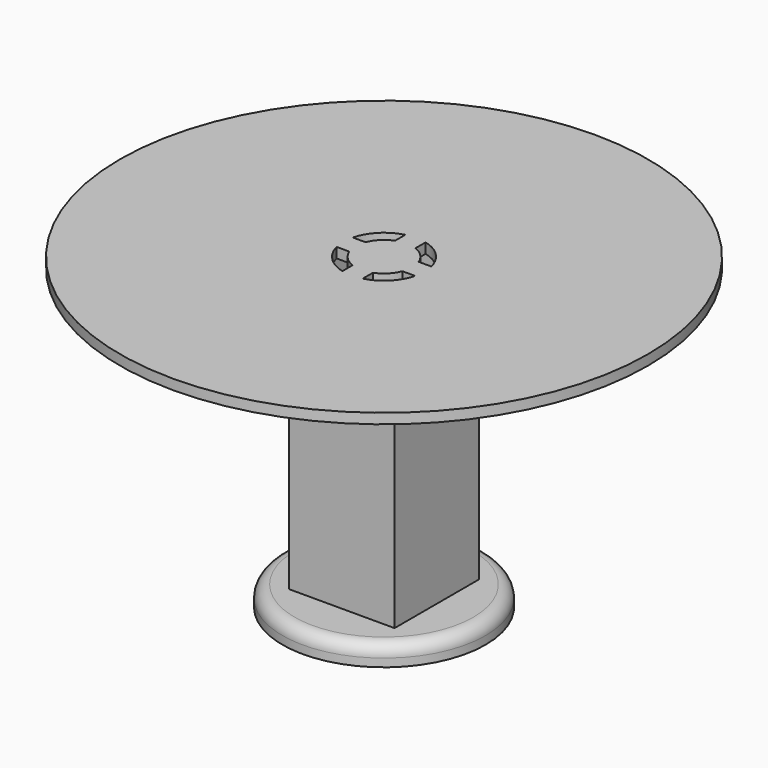
from build123d import *

# Parameters (mm, degrees)
F0_R      = 250
F1_DEPTH  = 50
F2_R      = 30
F3_W      = 260
F3_H      = 260
F3_W_2    = 220
F3_H_2    = 220
F4_DEPTH  = 685
F5_R      = 650
F5_W      = 260
F5_H      = 260
F5_W_2    = 220
F5_H_2    = 220
F6_DEPTH  = 25
F8_DEPTH  = 100
F9_W      = 160
F9_H      = 585
F10_DEPTH = 40
F11_R     = 50
F12_DEPTH = 50


with BuildPart() as f1:
    # F0 (on Top) → F1 (new body)
    with BuildSketch(Plane.XY):
        Circle(F0_R)
    extrude(amount=F1_DEPTH)

    # F2
    f2_edges = [f1.edges().sort_by_distance(p)[0] for p in [
        (-250, 0, 50),
    ]]
    fillet(f2_edges, radius=F2_R)

    # F3 (on face) → F4 (join)
    with BuildSketch(Plane.XY.offset(50)):
        Rectangle(F3_W, F3_H)
        Rectangle(F3_W_2, F3_H_2, mode=Mode.SUBTRACT)
    extrude(amount=F4_DEPTH)

    # F5 (on face) → F6 (join)
    with BuildSketch(Plane.XY.offset(735)):
        Circle(F5_R)
        Rectangle(F5_W, F5_H, mode=Mode.SUBTRACT)
        Rectangle(F5_W, F5_H)
        Rectangle(F5_W_2, F5_H_2, mode=Mode.SUBTRACT)
        Rectangle(F5_W_2, F5_H_2)
    extrude(amount=F6_DEPTH)

    # F7 (on face) → F8 (cut)
    with BuildSketch(Plane.XY.offset(760)):
        with BuildLine():
            Line((65.3834841531, 25), (96.8245836552, 25))
            ThreePointArc((96.8245836552, 25), (70.7106781187, 70.7106781187), (25, 96.8245836552))
            Line((25, 96.8245836552), (25, 65.3834841531))
            ThreePointArc((25, 65.3834841531), (49.4974746831, 49.4974746831), (65.3834841531, 25))
        make_face()
        with BuildLine():
            Line((-25, 65.3834841531), (-25, 96.8245836552))
            ThreePointArc((-25, 96.8245836552), (-70.7106781187, 70.7106781187), (-96.8245836552, 25))
            Line((-96.8245836552, 25), (-65.3834841531, 25))
            ThreePointArc((-65.3834841531, 25), (-49.4974746831, 49.4974746831), (-25, 65.3834841531))
        make_face()
        with BuildLine():
            ThreePointArc((-96.8245836552, -25), (-70.7106781187, -70.7106781187), (-25, -96.8245836552))
            Line((-25, -96.8245836552), (-25, -65.3834841531))
            ThreePointArc((-25, -65.3834841531), (-49.4974746831, -49.4974746831), (-65.3834841531, -25))
            Line((-65.3834841531, -25), (-96.8245836552, -25))
        make_face()
        with BuildLine():
            ThreePointArc((25, -96.8245836552), (70.7106781187, -70.7106781187), (96.8245836552, -25))
            Line((96.8245836552, -25), (65.3834841531, -25))
            ThreePointArc((65.3834841531, -25), (49.4974746831, -49.4974746831), (25, -65.3834841531))
            Line((25, -65.3834841531), (25, -96.8245836552))
        make_face()
        with BuildLine():
            Line((65.3834841531, 25), (96.8245836552, 25))
            ThreePointArc((96.8245836552, 25), (70.7106781187, 70.7106781187), (25, 96.8245836552))
            Line((25, 96.8245836552), (25, 65.3834841531))
            ThreePointArc((25, 65.3834841531), (49.4974746831, 49.4974746831), (65.3834841531, 25))
        make_face()
    extrude(amount=-F8_DEPTH, mode=Mode.SUBTRACT)

    # F9 (on face) → F10 (cut)
    with BuildSketch(Plane(origin=(0, 130, 0), x_dir=(-1, 0, 0), z_dir=(0, 1, 0))):
        with Locations((0, 392.5)):
            Rectangle(F9_W, F9_H)
        with Locations((0, 392.5)):
            Rectangle(F9_W, F9_H)
    extrude(amount=-F10_DEPTH, mode=Mode.SUBTRACT)

    # F11 (on face) → F12 (cut)
    with BuildSketch(Plane(origin=(0, 0, 0), x_dir=(1, 0, 0), z_dir=(0, 0, -1))):
        Circle(F11_R)
    extrude(amount=-F12_DEPTH, mode=Mode.SUBTRACT)


solid = f1.part
